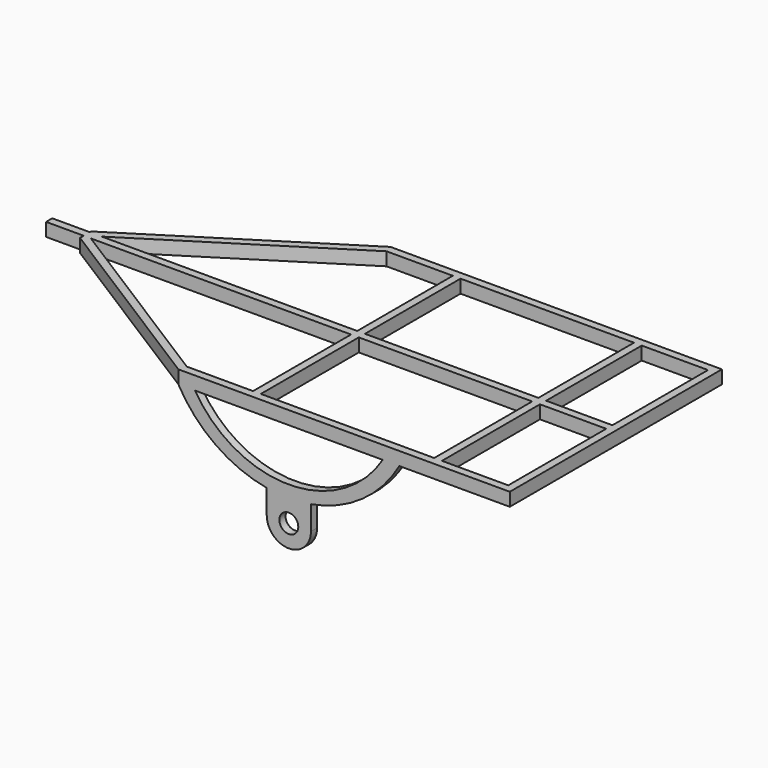
from build123d import *

# Parameters (mm, degrees)
F0_W     = 784.872064
F0_H     = 554.22735
F0_W_2   = 300
F0_H_2   = 540.77265
F1_DEPTH = 60
F2_R     = 42.74821
F3_DEPTH = 35


with BuildPart() as f1:
    # F0 (on Top) → F1 (new body)
    with BuildSketch(Plane.XY):
        Polygon((1186.367794, -601.090265), (1186.367794, 598.909735), (-313.632206, 598.909735), (-1213.632206, 30.444103), (-1213.632206, 23.137085), (-1383.632206, 23.137085), (-1383.632206, -11.862915), (-1213.632206, -11.862915), (-1213.632206, -32.624634), (-313.632206, -601.090265), align=None)
        Polygon((-3.50427, -566.090265), (-303.50427, -566.090265), (-1180.962091, -11.862915), (-3.50427, -11.862915), align=None, mode=Mode.SUBTRACT)
        with Locations((423.931762, -288.97659)):
            Rectangle(F0_W, F0_H, mode=Mode.SUBTRACT)
        with Locations((1001.367794, -288.97659)):
            Rectangle(F0_W_2, F0_H, mode=Mode.SUBTRACT)
        Polygon((-1159.660487, 23.137085), (-303.50427, 563.909735), (-3.50427, 563.909735), (-3.50427, 23.137085), align=None, mode=Mode.SUBTRACT)
        with Locations((423.931762, 293.52341)):
            Rectangle(F0_W, F0_H_2, mode=Mode.SUBTRACT)
        with Locations((1001.367794, 293.52341)):
            Rectangle(F0_W_2, F0_H_2, mode=Mode.SUBTRACT)
    extrude(amount=F1_DEPTH)

    # F2 (on face) → F3 (join, through all)
    with BuildSketch(Plane.XZ.offset(601.090265)):
        with BuildLine():
            Line((-238.632206, 0), (-313.632206, 0))
            ThreePointArc((-313.632206, 0), (-145.177401, -185.844731), (86.367794, -282.292165))
            Line((86.367794, -282.292165), (86.367794, -391.054583))
            ThreePointArc((86.367794, -391.054583), (186.367794, -491.054583), (286.367794, -391.054583))
            Line((286.367794, -391.054583), (286.367794, -282.292165))
            ThreePointArc((286.367794, -282.292165), (517.91299, -185.844731), (686.367794, 0))
            Line((686.367794, 0), (611.367794, 0))
            ThreePointArc((611.367794, 0), (186.367794, -236.608656), (-238.632206, 0))
        make_face()
        with Locations((186.367794, -391.054583)):
            Circle(F2_R, mode=Mode.SUBTRACT)
    extrude(amount=-F3_DEPTH)


solid = f1.part
